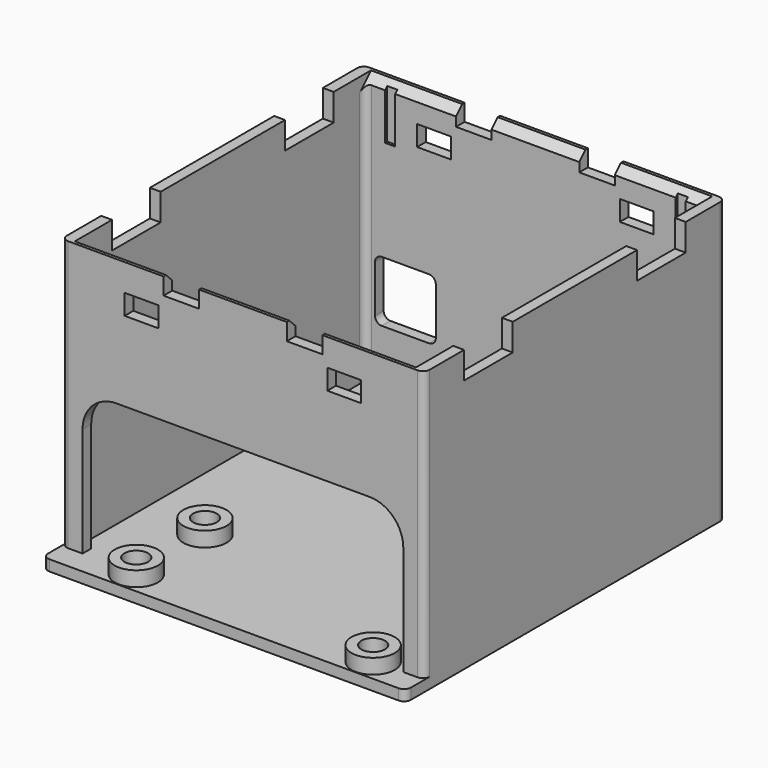
from build123d import *

# Parameters (mm, degrees)
SKETCH054_W          = 53.7
SKETCH054_H          = 59.2
SKETCH054_R          = 1.75
PAD015_DEPTH         = 1.6
SKETCH055_W          = 53.7
SKETCH055_H          = 55.7
SKETCH055_W_2        = 50.5
SKETCH055_H_2        = 52.5
PAD016_DEPTH         = 40
CHAMFER002_SIZE      = 1.15
FILLET006_R          = 1
SKETCH056_W          = 5
SKETCH056_H          = 3
SKETCH056_W_2        = 5.25
SKETCH056_H_2        = 2.5
POCKET016_DEPTH      = 27.851
POCKET016_DEPTH_BACK = 31.351
POCKET017_DEPTH      = 31.351
POCKET022_DEPTH      = 27.851
SKETCH058_W          = 9
SKETCH058_H          = 4
POCKET018_DEPTH      = 26.851
POCKET018_DEPTH_BACK = 26.851
SKETCH059_R          = 3.2
PAD017_DEPTH         = 2.2
SKETCH060_R          = 1.75
POCKET019_DEPTH      = 3.801
SKETCH061_W          = 1.5
SKETCH061_H          = 0.4
POCKET020_DEPTH      = 8


with BuildPart() as part:
    # Sketch054 → Pad015 (new body)
    with BuildSketch(Plane.XY):
        with Locations((0, -1.75)):
            Rectangle(SKETCH054_W, SKETCH054_H)
        with Locations((0, 19.652)):
            Circle(SKETCH054_R, mode=Mode.SUBTRACT)
    extrude(amount=PAD015_DEPTH)

    # Sketch055 → Pad016 (join)
    with BuildSketch(Plane.XY.offset(1.6)):
        Rectangle(SKETCH055_W, SKETCH055_H)
        Rectangle(SKETCH055_W_2, SKETCH055_H_2, mode=Mode.SUBTRACT)
    extrude(amount=PAD016_DEPTH)

    # Chamfer002
    chamfer002_edges = [part.edges().sort_by_distance(p)[0] for p in [
        (0, 26.25, 41.6),
        (0, -26.25, 41.6),
    ]]
    chamfer(chamfer002_edges, length=CHAMFER002_SIZE)

    # Fillet006
    fillet006_edges = [part.edges().sort_by_distance(p)[0] for p in [
        (-25.25, -26.25, 21.025),
        (-26.85, -27.85, 21.6),
        (-25.25, 26.25, 21.025),
        (-26.85, 27.85, 21.6),
        (25.25, 26.25, 21.025),
        (26.85, 27.85, 21.6),
        (25.25, -26.25, 21.025),
        (26.85, -27.85, 21.6),
        (-26.85, -31.35, 0.8),
        (26.85, -31.35, 0.8),
    ]]
    fillet(fillet006_edges, radius=FILLET006_R)

    # Sketch056 → Pocket016 (cut, two sides)
    with BuildSketch(Plane.XZ) as pocket016_sk:
        with Locations((-15, 36.1)):
            Rectangle(SKETCH056_W, SKETCH056_H)
        with Locations((15, 36.1)):
            Rectangle(SKETCH056_W, SKETCH056_H)
        with Locations((-9.125, 40.35)):
            Rectangle(SKETCH056_W_2, SKETCH056_H_2)
        with Locations((9.125, 40.35)):
            Rectangle(SKETCH056_W_2, SKETCH056_H_2)
    extrude(amount=-POCKET016_DEPTH, mode=Mode.SUBTRACT)
    extrude(pocket016_sk.sketch, amount=POCKET016_DEPTH_BACK, mode=Mode.SUBTRACT)

    # Sketch057 → Pocket017 (cut, through all)
    with BuildSketch(Plane.XZ):
        with BuildLine():
            Line((23.733, 17.8), (23.733, 1.6))
            Line((23.733, 1.6), (-23.733, 1.6))
            Line((-23.733, 1.6), (-23.733, 17.8))
            ThreePointArc((-18.733, 22.8), (-22.268534, 21.335534), (-23.733, 17.8))
            Line((-18.733, 22.8), (18.733, 22.8))
            ThreePointArc((23.733, 17.8), (22.268534, 21.335534), (18.733, 22.8))
        make_face()
    extrude(amount=POCKET017_DEPTH, mode=Mode.SUBTRACT)

    # Sketch063 → Pocket022 (cut, through all)
    with BuildSketch(Plane.XZ):
        with BuildLine():
            Line((-22.733, 18.6), (-15.733, 18.6))
            ThreePointArc((-14.733, 17.599995), (-15.025892, 18.307105), (-15.733, 18.6))
            Line((-14.733, 17.599995), (-14.733034, 10.599995))
            ThreePointArc((-15.733034, 9.6), (-15.025929, 9.892892), (-14.733034, 10.599995))
            Line((-15.733034, 9.6), (-22.733, 9.6))
            ThreePointArc((-23.733, 10.6), (-23.440107, 9.892893), (-22.733, 9.6))
            Line((-23.733, 10.6), (-23.733, 17.6))
            ThreePointArc((-22.733, 18.6), (-23.440107, 18.307107), (-23.733, 17.6))
        make_face()
        with BuildLine():
            Line((15.733, 18.599966), (22.733, 18.599966))
            ThreePointArc((23.733, 17.599966), (23.440107, 18.307073), (22.733, 18.599966))
            Line((23.733, 17.599966), (23.733, 10.6))
            ThreePointArc((22.733, 9.6), (23.440107, 9.892893), (23.733, 10.6))
            Line((22.733, 9.6), (15.733, 9.6))
            ThreePointArc((14.733, 10.6), (15.025893, 9.892893), (15.733, 9.6))
            Line((14.733, 10.6), (14.733, 17.599966))
            ThreePointArc((15.733, 18.599966), (15.025893, 18.307073), (14.733, 17.599966))
        make_face()
    extrude(amount=-POCKET022_DEPTH, mode=Mode.SUBTRACT)

    # Sketch058 → Pocket018 (cut, two sides)
    with BuildSketch(Plane.YZ) as pocket018_sk:
        with Locations((-16, 39.6)):
            Rectangle(SKETCH058_W, SKETCH058_H)
        with Locations((16, 39.6)):
            Rectangle(SKETCH058_W, SKETCH058_H)
    extrude(amount=-POCKET018_DEPTH, mode=Mode.SUBTRACT)
    extrude(pocket018_sk.sketch, amount=POCKET018_DEPTH_BACK, mode=Mode.SUBTRACT)

    # Sketch059 → Pad017 (join)
    with BuildSketch(Plane.XY.offset(1.6)):
        with Locations((-15.621, -15.348)):
            Circle(SKETCH059_R)
        with Locations((19.431, -15.348)):
            Circle(SKETCH059_R)
        with Locations((19.431, -28.048)):
            Circle(SKETCH059_R)
        with Locations((-15.621, -28.048)):
            Circle(SKETCH059_R)
    extrude(amount=PAD017_DEPTH)

    # Sketch060 → Pocket019 (cut, through all)
    with BuildSketch(Plane.XY.offset(3.8)):
        with Locations((-15.621, -15.348)):
            Circle(SKETCH060_R)
        with Locations((19.431, -15.348)):
            Circle(SKETCH060_R)
        with Locations((19.431, -28.048)):
            Circle(SKETCH060_R)
        with Locations((-15.621, -28.048)):
            Circle(SKETCH060_R)
    extrude(amount=-POCKET019_DEPTH, mode=Mode.SUBTRACT)

    # Sketch061 → Pocket020 (cut)
    with BuildSketch(Plane.XY.offset(41.6)):
        with Locations((-21.5, 26.45)):
            Rectangle(SKETCH061_W, SKETCH061_H)
        with Locations((21.5, 26.45)):
            Rectangle(SKETCH061_W, SKETCH061_H)
        with Locations((21.5, -26.45)):
            Rectangle(SKETCH061_W, SKETCH061_H)
        with Locations((-21.5, -26.45)):
            Rectangle(SKETCH061_W, SKETCH061_H)
    extrude(amount=-POCKET020_DEPTH, mode=Mode.SUBTRACT)


solid = part.part
